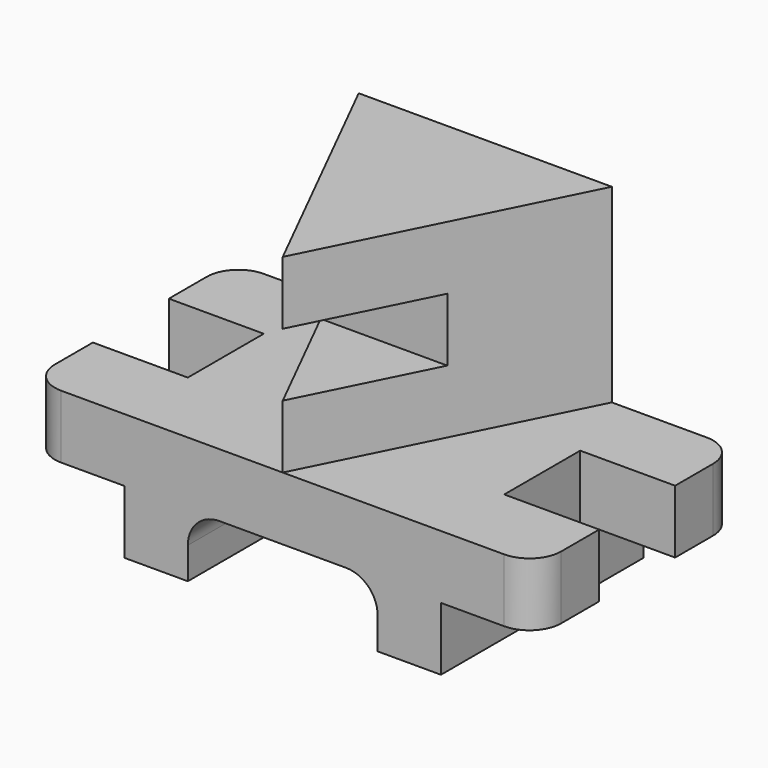
from build123d import *

# Parameters (mm, degrees)
F0_W      = 203.2
F0_H      = 127
F1_DEPTH  = 101.6
F2_W      = 38.1
F2_H      = 25.4
F3_DEPTH  = 101.601
F5_W      = 50.8
F5_H      = 25.4
F6_DEPTH  = 203.201
F7_DEPTH  = 76.2
F8_W      = 38.1
F8_H      = 38.1
F9_DEPTH  = 50.801
F10_W     = 38.1
F10_H     = 38.1
F11_DEPTH = 50.801


with BuildPart() as f1:
    # F0 (on Front) → F1 (new body)
    with BuildSketch(Plane.XZ):
        with Locations((101.6, 63.5)):
            Rectangle(F0_W, F0_H)
    extrude(amount=F1_DEPTH)

    # F2 (on face) → F3 (cut, through all)
    with BuildSketch(Plane.XZ.offset(101.6)):
        with Locations((19.05, 12.7)):
            Rectangle(F2_W, F2_H)
        with BuildLine():
            Line((63.5, 12.7), (63.5, 0))
            Line((63.5, 0), (139.7, 0))
            Line((139.7, 0), (139.7, 12.7))
            ThreePointArc((139.7, 12.7), (135.980256, 21.680256), (127, 25.4))
            Line((127, 25.4), (76.2, 25.4))
            ThreePointArc((76.2, 25.4), (67.219744, 21.680256), (63.5, 12.7))
        make_face()
        with Locations((184.15, 12.7)):
            Rectangle(F2_W, F2_H)
    extrude(amount=-F3_DEPTH, mode=Mode.SUBTRACT)

    # F5 (on face) → F6 (cut, through all)
    with BuildSketch(Plane.YZ.offset(203.2)):
        with Locations((-76.2, 88.9)):
            Rectangle(F5_W, F5_H)
    extrude(amount=-F6_DEPTH, mode=Mode.SUBTRACT)

    # F4 (on face) → F7 (cut)
    with BuildSketch(Plane.XY.offset(127)):
        Polygon((0, -101.6), (101.6, -101.6), (50.8, 0), (0, 0), align=None)
        Polygon((152.4, 0), (101.6, -101.6), (203.2, -101.6), (203.2, 0), align=None)
    extrude(amount=-F7_DEPTH, mode=Mode.SUBTRACT)

    # F8 (on face) → F9 (cut, through all)
    with BuildSketch(Plane.XY.offset(50.8)):
        with Locations((19.05, -50.8)):
            Rectangle(F8_W, F8_H)
        with BuildLine():
            Line((0, 0), (0, -12.7))
            ThreePointArc((0, -12.7), (3.719744, -3.719744), (12.7, 0))
            Line((12.7, 0), (0, 0))
        make_face()
        with BuildLine():
            ThreePointArc((12.7, -101.6), (3.719744, -97.880256), (0, -88.9))
            Line((0, -88.9), (0, -101.6))
            Line((0, -101.6), (12.7, -101.6))
        make_face()
    extrude(amount=-F9_DEPTH, mode=Mode.SUBTRACT)

    # F10 (on face) → F11 (cut, through all)
    with BuildSketch(Plane.XY.offset(50.8)):
        with Locations((184.15, -50.8)):
            Rectangle(F10_W, F10_H)
        with BuildLine():
            Line((203.2, -101.6), (203.2, -88.9))
            ThreePointArc((203.2, -88.9), (199.480256, -97.880256), (190.5, -101.6))
            Line((190.5, -101.6), (203.2, -101.6))
        make_face()
        with BuildLine():
            ThreePointArc((190.5, 0), (199.480256, -3.719744), (203.2, -12.7))
            Line((203.2, -12.7), (203.2, 0))
            Line((203.2, 0), (190.5, 0))
        make_face()
    extrude(amount=-F11_DEPTH, mode=Mode.SUBTRACT)


solid = f1.part
